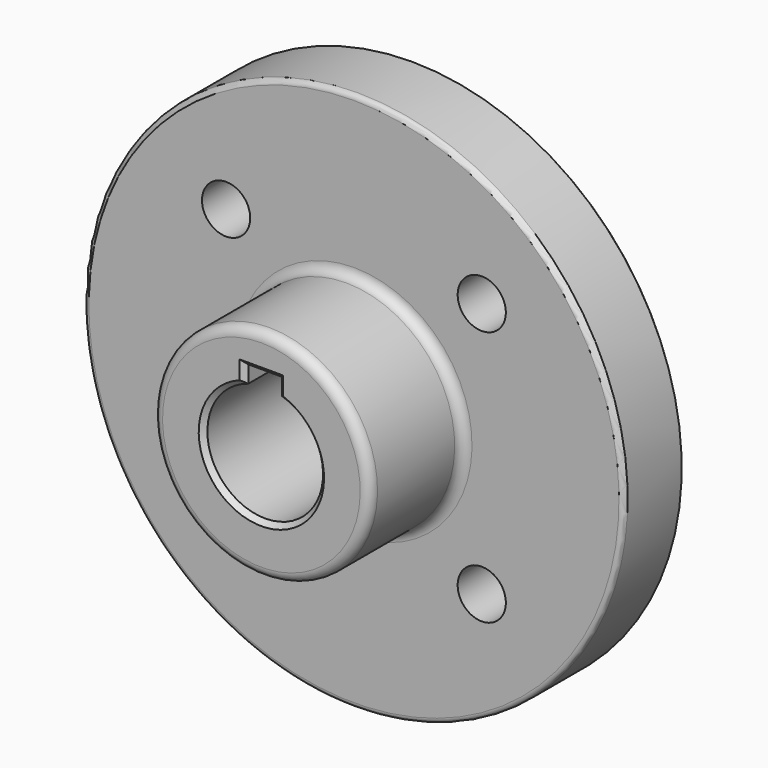
from build123d import *

# Parameters (mm, degrees)
F2_W     = 7
F2_H     = 7
F3_DEPTH = 42.001
F5_D     = 10
F6_SIZE  = 1
F7_SIZE  = 0.5
F8_SIZE  = 1
F9_R     = 1
F10_R    = 2
F11_R    = 0.5


with BuildPart() as f1:
    # F0 (on Right) → F1 (revolve)
    with BuildSketch(Plane.YZ):
        Polygon((0, 12), (0, 20), (-2, 20), (-2, 56), (-18, 56), (-18, 22.5), (-42, 22.5), (-42, 12), align=None)
    revolve(axis=Axis((0, -17.673691, 0), (0, 1, 0)))

    # F2 (on face) → F3 (cut, through all)
    with BuildSketch(Plane.XZ.offset(42)):
        with Locations((0, 11.5)):
            Rectangle(F2_W, F2_H)
    extrude(amount=-F3_DEPTH, mode=Mode.SUBTRACT)

    # F5 (through all)
    with Locations(Plane.XZ.offset(18)):
        with Locations((26.516504, 26.516504), (26.516504, -26.516504), (-26.516504, 26.516504), (-26.516504, -26.516504)):
            Hole(F5_D / 2)

    # F6
    f6_edges = [f1.edges().sort_by_distance(p)[0] for p in [
        (3.5, -42, 13.23912),
        (3.5, 0, 13.23912),
        (-3.5, 0, 13.23912),
        (0, 0, 15),
        (0, 0, -12),
        (0, -42, -12),
        (-3.5, -42, 13.23912),
        (0, -42, 15),
    ]]
    chamfer(f6_edges, length=F6_SIZE)

    # F7
    f7_edges = [f1.edges().sort_by_distance(p)[0] for p in [
        (0, 0, -20),
    ]]
    chamfer(f7_edges, length=F7_SIZE)

    # F8
    f8_edges = [f1.edges().sort_by_distance(p)[0] for p in [
        (0, -2, -56),
    ]]
    chamfer(f8_edges, length=F8_SIZE)

    # F9
    f9_edges = [f1.edges().sort_by_distance(p)[0] for p in [
        (0, -18, -56),
    ]]
    fillet(f9_edges, radius=F9_R)

    # F10
    f10_edges = [f1.edges().sort_by_distance(p)[0] for p in [
        (0, -18, -22.5),
        (0, -42, -22.5),
    ]]
    fillet(f10_edges, radius=F10_R)

    # F11
    f11_edges = [f1.edges().sort_by_distance(p)[0] for p in [
        (0, -2, -20),
    ]]
    fillet(f11_edges, radius=F11_R)


solid = f1.part
